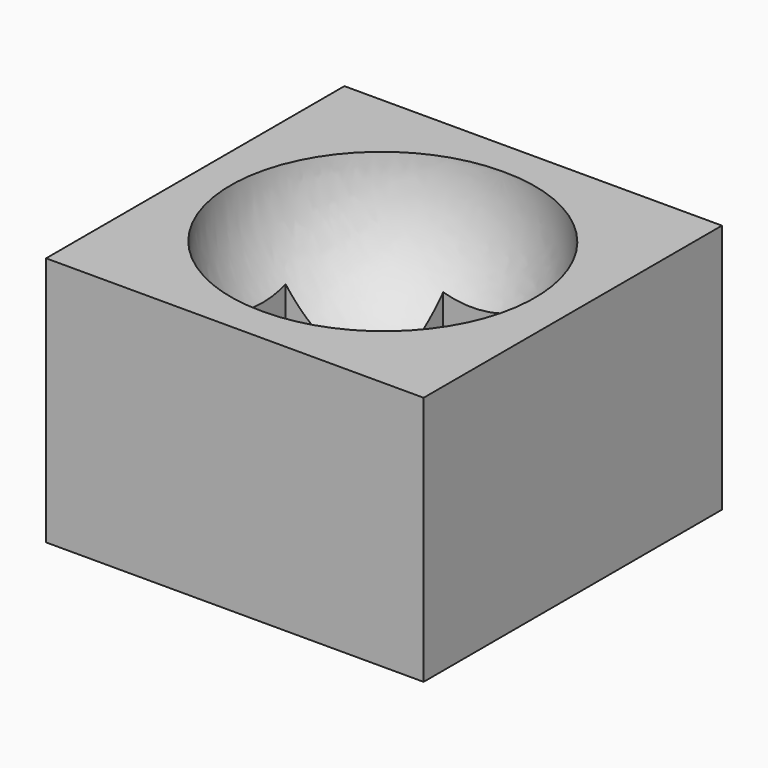
from build123d import *

# Parameters (mm, degrees)
F0_W     = 26.8387589604
F0_H     = 26.5057813376
F1_DEPTH = 17.78
F3_ANGLE = 180
F5_DEPTH = 12.7


with BuildPart() as f1:
    # F0 (on Top) → F1 (new body)
    with BuildSketch(Plane.XY):
        Rectangle(F0_W, F0_H)
    extrude(amount=F1_DEPTH)

    # F2 (on face) → F3 (revolve, cut)
    with BuildSketch(Plane.XY.offset(17.78)):
        with BuildLine():
            Line((-0.1599836294, 10.7320307857), (-0.010505857, -10.7332180251))
            ThreePointArc((-0.010505857, -10.7332180251), (10.7329629317, 0.0747412436), (-0.1599836294, 10.7320307857))
        make_face()
    revolve(axis=Axis((-0.0852447432, -0.0005936197, 17.78), (-0.0069635414, 0.9999757543, 0)), revolution_arc=F3_ANGLE, mode=Mode.SUBTRACT)

    # F4 (on face) → F5 (cut)
    with BuildSketch(Plane.XY.offset(17.78)):
        Polygon((2.006725641, 7.910721004), (-0.1403368457, 7.910721004), (-0.0334680846, -7.4358051643), (2.006725641, -7.4358051643), (2.006725641, -2.2563524544), (8.3371670917, -2.2563524544), (8.3371670917, 2.0598582923), (2.006725641, 2.0598582923), align=None)
        Polygon((-0.1403368457, 7.910721004), (-2.1176536102, 7.910721004), (-2.1176536102, 2.0598582923), (-8.6399270222, 2.0598582923), (-8.6399270222, -2.2563524544), (-2.1176536102, -2.2563524544), (-2.1176536102, -7.4358051643), (-0.0334680846, -7.4358051643), align=None)
    extrude(amount=-F5_DEPTH, mode=Mode.SUBTRACT)


solid = f1.part
